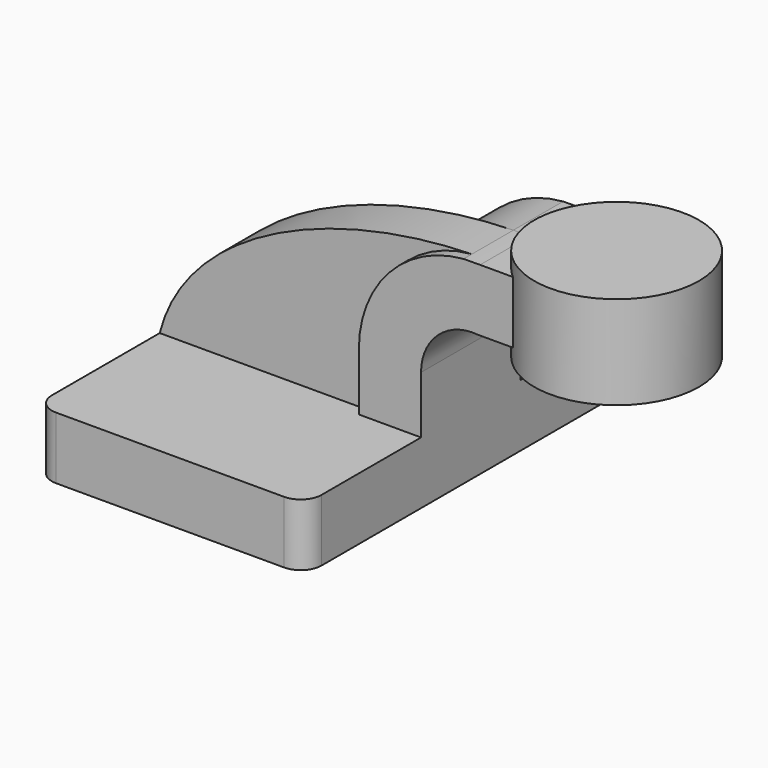
from build123d import *

# Parameters (mm, degrees)
F1_DEPTH = 63.5
F0_W     = 25.5753439546
F0_H     = 19.05
F2_DEPTH = 19.05
F3_DEPTH = 15.875
F5_R     = 6.35


with BuildPart() as f1:
    # F0 (on Front) → F1 (new body, symmetric)
    with BuildSketch(Plane.XZ):
        Polygon((-41.275, -9.525), (41.275, -9.525), (41.275, 9.525), (22.225, 9.525), (-41.275, 9.525), align=None)
    extrude(amount=F1_DEPTH, both=True)

    # F0 (on Front) → F2 (join, symmetric)
    with BuildSketch(Plane.XZ):
        with BuildLine():
            Line((22.225, 9.525), (41.275, 9.525))
            Line((41.275, 9.525), (41.275, 27.0694342772))
            ThreePointArc((41.275, 27.0694342772), (46.461113991, 38.8066971986), (58.6310114503, 42.8752))
            Line((58.6310114503, 42.8752), (60.325, 42.8752))
            Line((60.325, 42.8752), (60.325, 61.9252))
            Line((60.325, 61.9252), (59.3480038392, 61.9252))
            add(Edge.make_bspline(
                [(54.2917304748, 61.8772770762), (55.9757916155, 61.9197178462), (57.6618264754, 61.9358036226), (59.3480038392, 61.9252)],
                knots=[109.3105529677, 109.3105529677, 109.3105529677, 109.3105529677, 113.4494154311, 113.4494154311, 113.4494154311, 113.4494154311], degree=3))
            ThreePointArc((54.2917304748, 61.8772770762), (31.4636155895, 50.7330198237), (22.225, 27.0694342772))
            Line((22.225, 27.0694342772), (22.225, 9.525))
        make_face()
        with Locations((73.1126719773, 52.4002)):
            Rectangle(F0_W, F0_H)
    extrude(amount=F2_DEPTH, both=True)

    # F0 (on Front) → F3 (join)
    with BuildSketch(Plane.XZ):
        with BuildLine():
            add(Edge.make_bspline(
                [(-41.275, 9.525), (-33.2862530849, 41.2521209724), (9.8143756106, 60.7563835758), (54.2917304748, 61.8772770762)],
                knots=[0, 0, 0, 0, 109.3105529677, 109.3105529677, 109.3105529677, 109.3105529677], degree=3))
            Line((-41.275, 9.525), (22.225, 9.525))
            Line((22.225, 9.525), (22.225, 27.0694342772))
            ThreePointArc((22.225, 27.0694342772), (31.4636155895, 50.7330198237), (54.2917304748, 61.8772770762))
        make_face()
    extrude(amount=F3_DEPTH)

    # F0 (on Front) → F4 (revolve)
    with BuildSketch(Plane.XZ):
        Polygon((85.9003439546, 61.9252), (85.9003439546, 42.8752), (85.9003439546, 38.1), (111.125, 38.1), (111.125, 66.675), (85.9003439546, 66.675), align=None)
    revolve(axis=Axis((85.9003439546, 0, 52.3875), (0, 0, 1)))

    # F5
    f5_edges = [f1.edges().sort_by_distance(p)[0] for p in [
        (-41.275, -63.5, 0),
        (41.275, -63.5, 0),
        (41.275, 63.5, 0),
        (-41.275, 63.5, 0),
    ]]
    fillet(f5_edges, radius=F5_R)


solid = f1.part
